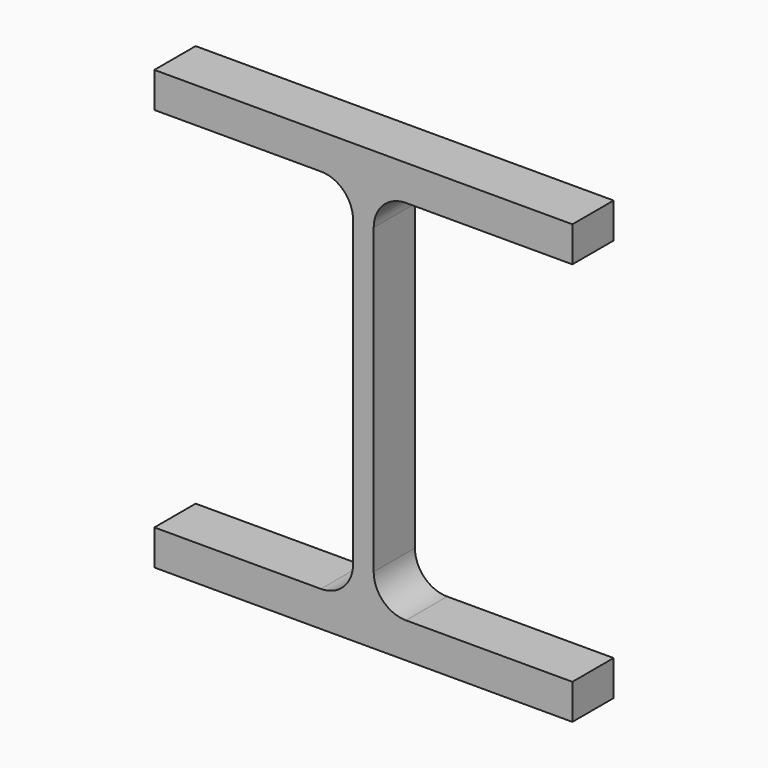
from build123d import *

# Parameters (mm, degrees)
F1_DEPTH = 25.4


with BuildPart() as f1:
    # F0 (on Front) → F1 (new body)
    with BuildSketch(Plane.XZ):
        with BuildLine():
            Line((102.997, 107.95), (-102.997, 107.95))
            Line((-102.997, 107.95), (-102.997, 90.551))
            Line((-102.997, 90.551), (-20.955, 90.551))
            ThreePointArc((-20.955, 90.551), (-9.72968, 85.90132), (-5.08, 74.676))
            Line((-5.08, 74.676), (-5.08, -74.676))
            ThreePointArc((-5.08, -74.676), (-9.72968, -85.90132), (-20.955, -90.551))
            Line((-20.955, -90.551), (-102.997, -90.551))
            Line((-102.997, -90.551), (-102.997, -107.95))
            Line((-102.997, -107.95), (102.997, -107.95))
            Line((102.997, -107.95), (102.997, -90.551))
            Line((102.997, -90.551), (20.955, -90.551))
            ThreePointArc((20.955, -90.551), (9.72968, -85.90132), (5.08, -74.676))
            Line((5.08, -74.676), (5.08, 74.676))
            ThreePointArc((5.08, 74.676), (9.72968, 85.90132), (20.955, 90.551))
            Line((20.955, 90.551), (102.997, 90.551))
            Line((102.997, 90.551), (102.997, 107.95))
        make_face()
    extrude(amount=F1_DEPTH)


solid = f1.part
